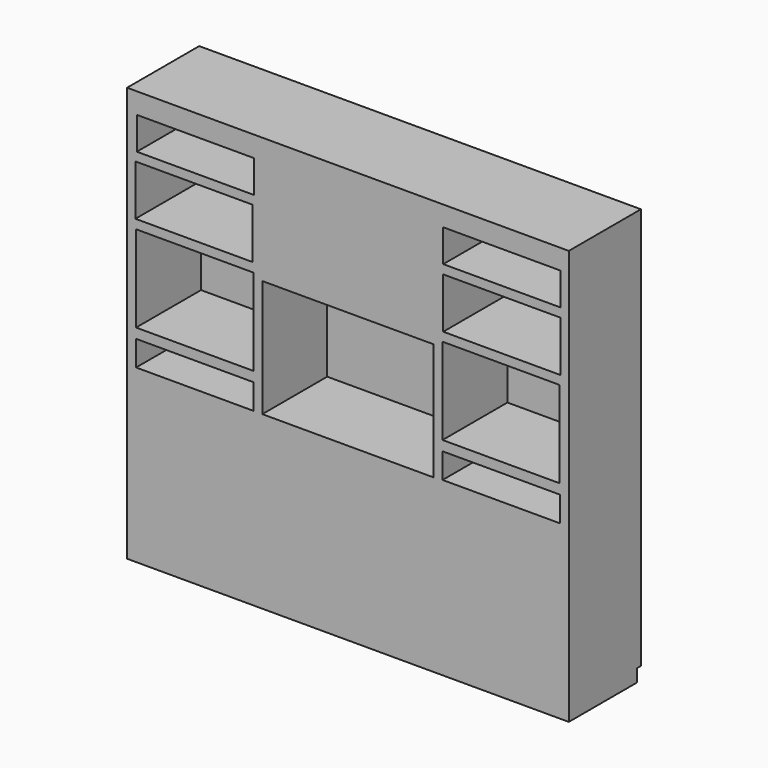
from build123d import *

# Parameters (mm, degrees)
F0_W     = 2450
F0_H     = 2300
F1_DEPTH = 500
F2_W     = 2450
F2_H     = 70.1220273972
F3_DEPTH = 28
F4_W     = 950
F4_H     = 650
F5_DEPTH = 450
F6_W     = 650
F6_H     = 180
F6_H_2   = 280
F6_H_3   = 480
F6_H_4   = 140
F7_DEPTH = 450


with BuildPart() as f1:
    # F0 (on Front) → F1 (new body)
    with BuildSketch(Plane.XZ):
        Rectangle(F0_W, F0_H)
        Rectangle(F0_W, F0_H)
    extrude(amount=F1_DEPTH)

    # F2 (on face) → F3 (cut)
    with BuildSketch(Plane(origin=(0, 0, 0), x_dir=(-1, 0, 0), z_dir=(0, 1, 0))):
        with Locations((0, -1114.9389863014)):
            Rectangle(F2_W, F2_H)
    extrude(amount=-F3_DEPTH, mode=Mode.SUBTRACT)

    # F4 (on face) → F5 (cut)
    with BuildSketch(Plane.XZ.offset(500)):
        with Locations((0, 125)):
            Rectangle(F4_W, F4_H)
    extrude(amount=-F5_DEPTH, mode=Mode.SUBTRACT)

    # F6 (on face) → F7 (cut)
    with BuildSketch(Plane.XZ.offset(500)):
        with Locations((-845.8494544029, 945.1172356308)):
            Rectangle(F6_W, F6_H)
        with Locations((-853.7539243698, 665.1172356308)):
            Rectangle(F6_W, F6_H_2)
        with Locations((-850, 235.1172356308)):
            Rectangle(F6_W, F6_H_3)
        with Locations((849.6512174606, 238.820990324)):
            Rectangle(F6_W, F6_H_3)
        with Locations((853.603541851, 668.820990324)):
            Rectangle(F6_W, F6_H_2)
        with Locations((853.603541851, 948.820990324)):
            Rectangle(F6_W, F6_H)
        with Locations((-850, -129.8827643692)):
            Rectangle(F6_W, F6_H_4)
        with Locations((849.9528169632, -126.179009676)):
            Rectangle(F6_W, F6_H_4)
    extrude(amount=-F7_DEPTH, mode=Mode.SUBTRACT)


solid = f1.part
